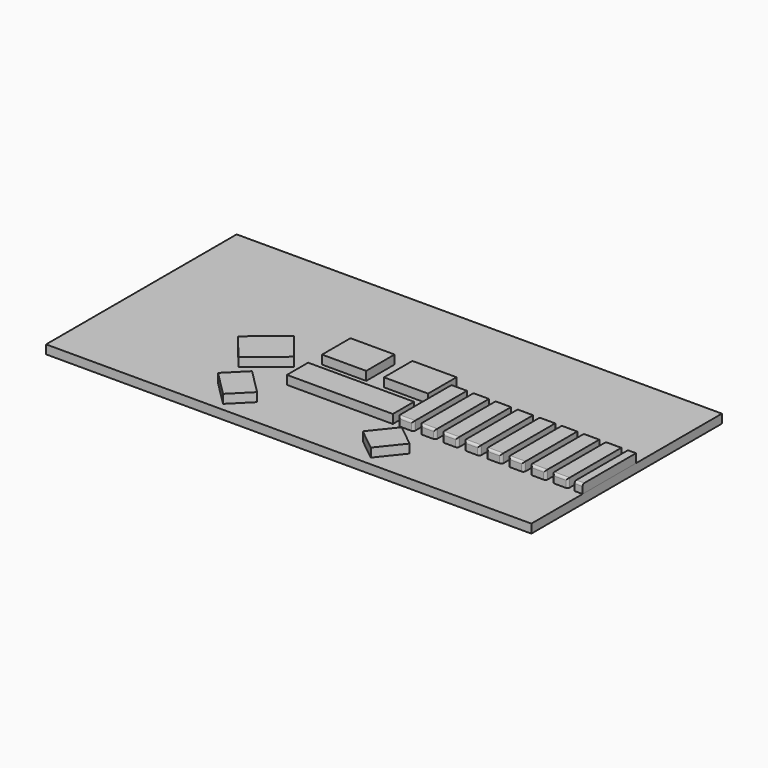
from build123d import *

# Parameters (mm, degrees)
F0_W     = 1397
F0_H     = 685.8
F1_DEPTH = 25.4
F2_W     = 304.8
F2_H     = 76.2
F3_DEPTH = 25.4
F2_W_2   = 127
F2_H_2   = 102.1273690268
F5_DEPTH = 25.4
F6_W     = 103.9362248944
F6_H     = 25.4
F6_W_2   = 19.05
F7_DEPTH = 203.2
F8_R     = 6.35


with BuildPart() as f1:
    # F0 (on Top) → F1 (new body)
    with BuildSketch(Plane.XY):
        with Locations((0, -29.0562831177)):
            Rectangle(F0_W, F0_H)
    extrude(amount=F1_DEPTH)

    # F4 (on face) → F5 (join)
    with BuildSketch(Plane.XY.offset(25.4)):
        Polygon((167.4362321558, -187.5774211861), (802.4362234732, -187.4724123998), (802.4037175289, 9.0947042382), (167.4037262115, 8.9896954519), align=None)
    extrude(amount=F5_DEPTH)

    # F6 (on face) → F7 (cut)
    with BuildSketch(Plane(origin=(0.0310239128, -187.605104679, 0), x_dir=(0.9999999863, 0.0001653682, 0), z_dir=(0.0001653682, -0.9999999863, 0))):
        with Locations((750.4370980848, 38.1)):
            Rectangle(F6_W, F6_H)
        with Locations((665.880210532, 38.1)):
            Rectangle(F6_W_2, F6_H)
        with Locations((602.380210532, 38.1)):
            Rectangle(F6_W_2, F6_H)
        with Locations((538.880210532, 38.1)):
            Rectangle(F6_W_2, F6_H)
        with Locations((475.380210532, 38.1)):
            Rectangle(F6_W_2, F6_H)
        with Locations((411.880210532, 38.1)):
            Rectangle(F6_W_2, F6_H)
        with Locations((348.380210532, 38.1)):
            Rectangle(F6_W_2, F6_H)
        with Locations((284.880210532, 38.1)):
            Rectangle(F6_W_2, F6_H)
        with Locations((221.380210532, 38.1)):
            Rectangle(F6_W_2, F6_H)
    extrude(amount=-F7_DEPTH, mode=Mode.SUBTRACT)

    # F8
    f8_edges = [f1.edges().sort_by_distance(p)[0] for p in [
        (189.661232, -187.573746, 50.8),
        (253.161231, -187.563245, 50.8),
        (316.66123, -187.552744, 50.8),
        (380.161229, -187.542243, 50.8),
        (443.661228, -187.531742, 50.8),
        (507.161228, -187.521241, 50.8),
        (570.661227, -187.510741, 50.8),
        (634.161226, -187.50024, 50.8),
        (634.12872, 9.066877, 50.8),
        (686.935607, 9.075609, 50.8),
        (686.968113, -187.491507, 50.8),
        (570.628721, 9.056376, 50.8),
        (507.128722, 9.045875, 50.8),
        (443.628722, 9.035374, 50.8),
        (189.628726, 8.993371, 50.8),
        (253.128725, 9.003872, 50.8),
        (316.628724, 9.014373, 50.8),
        (380.128723, 9.024873, 50.8),
        (167.436232, -187.577421, 38.1),
        (211.886232, -187.570071, 38.1),
        (230.936231, -187.56692, 38.1),
        (275.386231, -187.55957, 38.1),
        (294.43623, -187.556419, 38.1),
        (338.88623, -187.549069, 38.1),
        (357.93623, -187.545919, 38.1),
        (402.386229, -187.538568, 38.1),
        (421.436229, -187.535418, 38.1),
        (465.886228, -187.528067, 38.1),
        (484.936228, -187.524917, 38.1),
        (529.386227, -187.517566, 38.1),
        (548.436227, -187.514416, 38.1),
        (592.886226, -187.507065, 38.1),
        (611.936226, -187.503915, 38.1),
        (656.386225, -187.496564, 38.1),
        (211.853726, 8.997046, 38.1),
        (167.403726, 8.989695, 38.1),
        (230.903725, 9.000196, 38.1),
        (275.353725, 9.007547, 38.1),
        (294.403724, 9.010697, 38.1),
        (338.853724, 9.018048, 38.1),
        (357.903724, 9.021198, 38.1),
        (402.353723, 9.028549, 38.1),
        (421.403723, 9.031699, 38.1),
        (465.853722, 9.03905, 38.1),
        (484.903722, 9.0422, 38.1),
        (529.353721, 9.04955, 38.1),
        (548.403721, 9.052701, 38.1),
        (592.85372, 9.060051, 38.1),
        (611.90372, 9.063202, 38.1),
        (656.35372, 9.070552, 38.1),
        (675.403719, 9.073702, 38.1),
        (698.467494, 9.077516, 38.1),
    ]]
    fillet(f8_edges, radius=F8_R)


with BuildPart() as f3:
    # F2 (on face) → F3 (new body)
    with BuildSketch(Plane.XY.offset(25.4)):
        with Locations((0, -149.7062831177)):
            Rectangle(F2_W, F2_H)
    extrude(amount=F3_DEPTH)


with BuildPart() as f3b:
    # F2 (on face) → F3, piece 2 (new body)
    with BuildSketch(Plane.XY.offset(25.4)):
        Polygon((-292.1, -187.8062831177), (-194.8890785103, -108.6759320823), (-258.3890785103, -30.666755656), (-355.6, -109.7971066914), align=None)
    extrude(amount=F3_DEPTH)


with BuildPart() as f3c:
    # F2 (on face) → F3, piece 3 (new body)
    with BuildSketch(Plane.XY.offset(25.4)):
        with Locations((-88.9, -10.2699676311)):
            Rectangle(F2_W_2, F2_H_2)
    extrude(amount=F3_DEPTH)


with BuildPart() as f3d:
    # F2 (on face) → F3, piece 4 (new body)
    with BuildSketch(Plane.XY.offset(25.4)):
        with Locations((88.9, -9.7425986043)):
            Rectangle(F2_W_2, F2_H_2)
    extrude(amount=F3_DEPTH)


with BuildPart() as f3e:
    # F2 (on face) → F3, piece 5 (new body)
    with BuildSketch(Plane.XY.offset(25.4)):
        Polygon((-206.873130602, -349.7312831177), (-152.4, -295.2581525156), (-224.926869398, -222.7312831177), (-279.4, -277.2044137197), align=None)
    extrude(amount=F3_DEPTH)


with BuildPart() as f3f:
    # F2 (on face) → F3, piece 6 (new body)
    with BuildSketch(Plane.XY.offset(25.4)):
        Polygon((152.4, -295.7562831177), (215.9, -346.5562831177), (271.78, -276.7062831177), (208.28, -225.9062831177), align=None)
    extrude(amount=F3_DEPTH)


solid = Compound([f1.part, f3.part, f3b.part, f3c.part, f3d.part, f3e.part, f3f.part])
